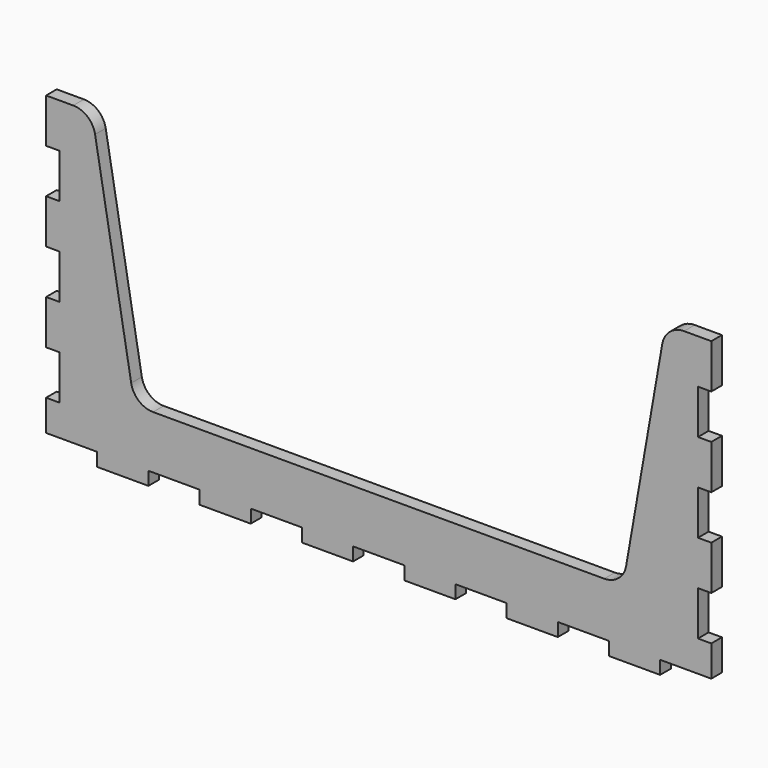
from build123d import *

# Parameters (mm, degrees)
F1_DEPTH = 3


with BuildPart() as f1:
    # F0 (on Front) → F1 (new body)
    with BuildSketch(Plane.XZ):
        with BuildLine():
            Line((75, 25), (75, 35))
            Line((75, 35), (68.875617, 35))
            ThreePointArc((68.875617, 35), (65.658037, 33.827163), (63.949936, 30.858872))
            Line((63.949936, 30.858872), (55.803943, -15.858872))
            ThreePointArc((55.803943, -15.858872), (54.095841, -18.827163), (50.878261, -20))
            Line((50.878261, -20), (0, -20))
            Line((0, -20), (-50.878261, -20))
            ThreePointArc((-50.878261, -20), (-54.095841, -18.827163), (-55.803943, -15.858872))
            Line((-55.803943, -15.858872), (-63.949936, 30.858872))
            ThreePointArc((-63.949936, 30.858872), (-65.658037, 33.827163), (-68.875617, 35))
            Line((-68.875617, 35), (-75, 35))
            Line((-75, 35), (-75, 25))
            Line((-75, 25), (-72, 25))
            Line((-72, 25), (-72, 15))
            Line((-72, 15), (-75, 15))
            Line((-75, 15), (-75, 5))
            Line((-75, 5), (-72, 5))
            Line((-72, 5), (-72, -5))
            Line((-72, -5), (-75, -5))
            Line((-75, -5), (-75, -15))
            Line((-75, -15), (-72, -15))
            Line((-72, -15), (-72, -25))
            Line((-72, -25), (-75, -25))
            Line((-75, -25), (-75, -32))
            Line((-75, -32), (-63.461538, -32))
            Line((-63.461538, -32), (-63.461538, -35))
            Line((-63.461538, -35), (-51.923077, -35))
            Line((-51.923077, -35), (-51.923077, -32))
            Line((-51.923077, -32), (-40.384615, -32))
            Line((-40.384615, -32), (-40.384615, -35))
            Line((-40.384615, -35), (-28.846154, -35))
            Line((-28.846154, -35), (-28.846154, -32))
            Line((-28.846154, -32), (-17.307692, -32))
            Line((-17.307692, -32), (-17.307692, -35))
            Line((-17.307692, -35), (-5.769231, -35))
            Line((-5.769231, -35), (-5.769231, -32))
            Line((-5.769231, -32), (5.769231, -32))
            Line((5.769231, -32), (5.769231, -35))
            Line((5.769231, -35), (17.307692, -35))
            Line((17.307692, -35), (17.307692, -32))
            Line((17.307692, -32), (28.846154, -32))
            Line((28.846154, -32), (28.846154, -35))
            Line((28.846154, -35), (40.384615, -35))
            Line((40.384615, -35), (40.384615, -32))
            Line((40.384615, -32), (51.923077, -32))
            Line((51.923077, -32), (51.923077, -35))
            Line((51.923077, -35), (63.461538, -35))
            Line((63.461538, -35), (63.461538, -32))
            Line((63.461538, -32), (75, -32))
            Line((75, -32), (75, -25))
            Line((75, -25), (72, -25))
            Line((72, -25), (72, -15))
            Line((72, -15), (75, -15))
            Line((75, -15), (75, -5))
            Line((75, -5), (72, -5))
            Line((72, -5), (72, 5))
            Line((72, 5), (75, 5))
            Line((75, 5), (75, 15))
            Line((75, 15), (72, 15))
            Line((72, 15), (72, 25))
            Line((72, 25), (75, 25))
        make_face()
    extrude(amount=F1_DEPTH)


solid = f1.part
